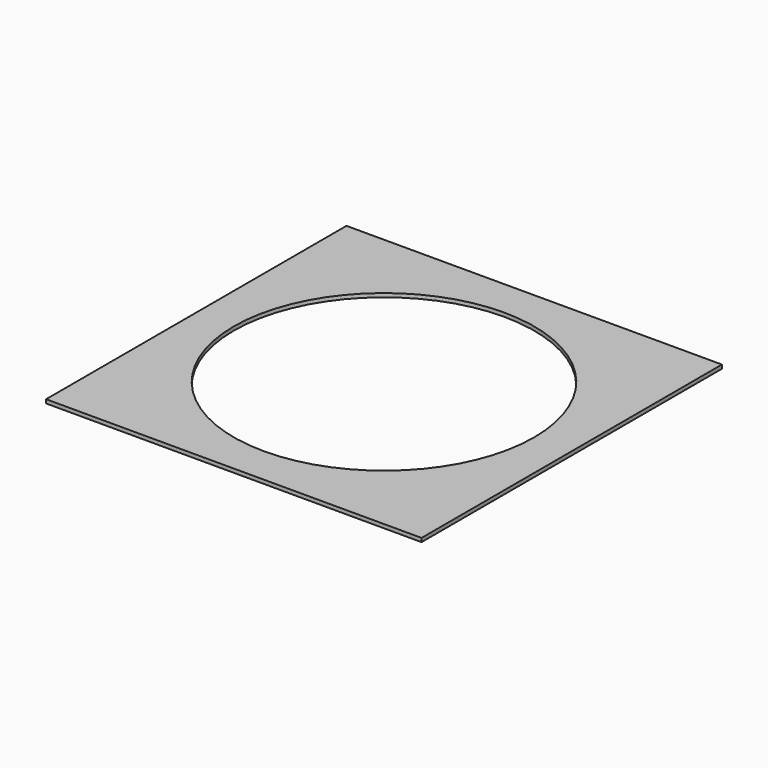
from build123d import *

# Parameters (mm, degrees)
CYLINDER_R     = 400
CYLINDER_DEPTH = 10
BOX_W          = 1000
BOX_H          = 1000
BOX_DEPTH      = 10


with BuildPart() as cylinder:
    # Cylinder → Cylinder (new body)
    with BuildSketch(Plane(origin=(500, 500, 0), x_dir=(1, 0, 0), z_dir=(0, 0, 1))):
        Circle(CYLINDER_R)
    extrude(amount=CYLINDER_DEPTH)


with BuildPart() as cut:
    # Box → Box (new body)
    with BuildSketch(Plane.XY):
        with Locations((500, 500)):
            Rectangle(BOX_W, BOX_H)
    extrude(amount=BOX_DEPTH)

    # Cut: cut Cylinder
    add(cylinder.part, mode=Mode.SUBTRACT)


solid = cut.part
